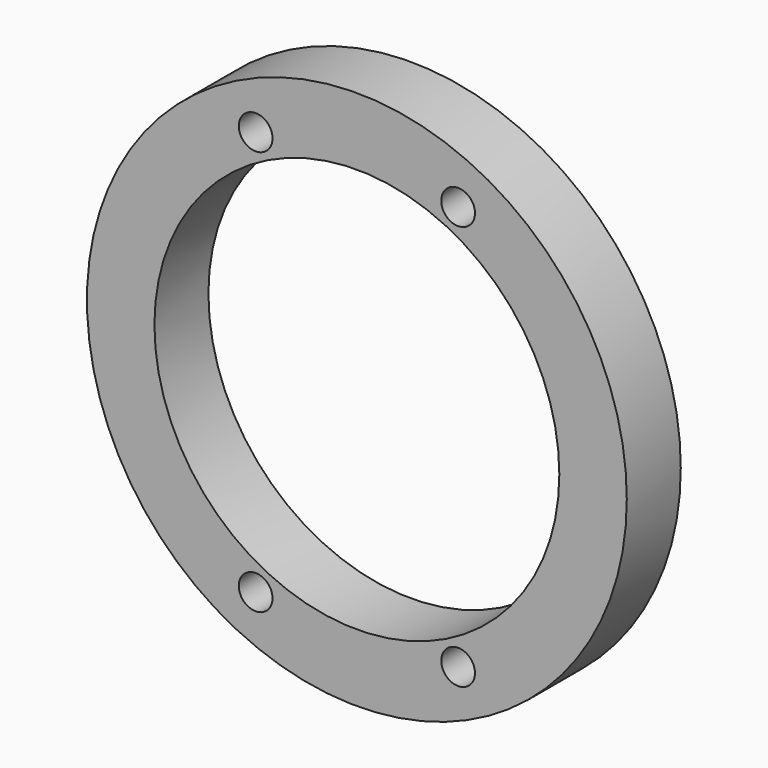
from build123d import *

# Parameters (mm, degrees)
F0_R     = 50.8
F0_R_2   = 38.1
F1_DEPTH = 12.7
F2_R     = 3.175
F3_DEPTH = 12.7


with BuildPart() as f1:
    # F0 (on Front) → F1 (new body)
    with BuildSketch(Plane.XZ):
        Circle(F0_R)
        Circle(F0_R_2, mode=Mode.SUBTRACT)
    extrude(amount=F1_DEPTH)

    # F2 (on face) → F3 (cut)
    with BuildSketch(Plane.XZ.offset(12.7)):
        with Locations((-19.05, 38.1)):
            Circle(F2_R)
        with Locations((19.05, 38.1)):
            Circle(F2_R)
        with Locations((19.05, -38.1)):
            Circle(F2_R)
        with Locations((-19.05, -38.1)):
            Circle(F2_R)
    extrude(amount=-F3_DEPTH, mode=Mode.SUBTRACT)


solid = f1.part
